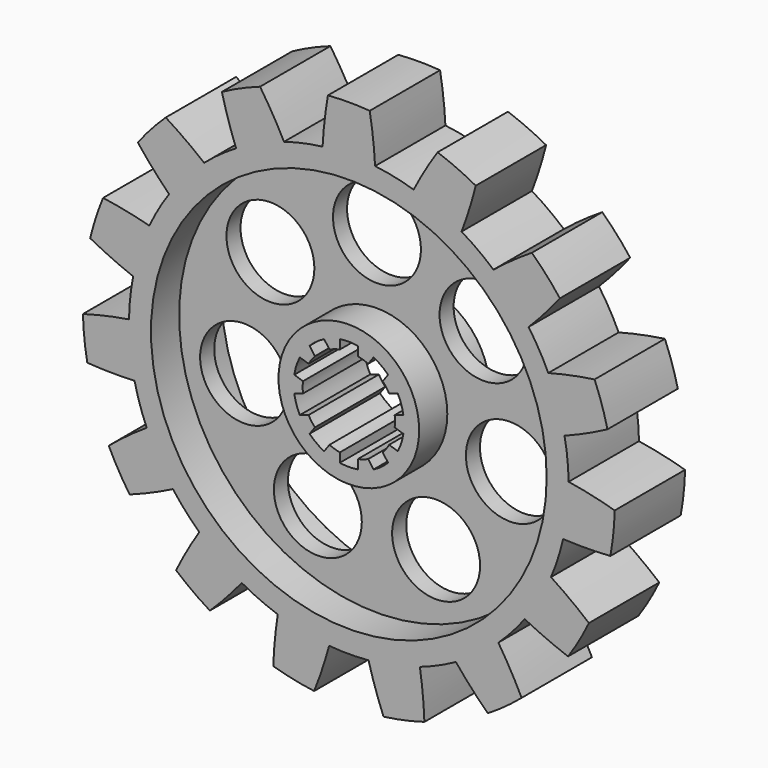
from build123d import *

# Parameters (mm, degrees)
F0_R      = 10.5
F1_DEPTH  = 20
F3_DEPTH  = 20
F4_R      = 45
F4_R_2    = 16
F5_DEPTH  = 8
F7_R      = 45
F7_R_2    = 16
F8_DEPTH  = 8
F10_R     = 10
F11_DEPTH = 25


with BuildPart() as f1:
    # F0 (on Front) → F1 (new body)
    with BuildSketch(Plane.XZ):
        with BuildLine():
            ThreePointArc((48.7465207485, -11.125498412), (49.6856419775, -5.5979443805), (50, 0))
            ThreePointArc((50, 0), (49.9986033556, 0.3737144531), (49.9944135003, 0.7474080283))
            ThreePointArc((49.9944135003, 0.7474080283), (49.7260947684, 5.2264231634), (49.0573104823, 9.6633476726))
            ThreePointArc((49.0573104823, 9.6633476726), (47.5528258148, 15.4508497187), (45.3681711282, 21.017351129))
            ThreePointArc((45.3681711282, 21.017351129), (43.3012701892, 25), (40.8856455621, 28.7813131558))
            ThreePointArc((40.8856455621, 28.7813131558), (37.1572412739, 33.4565303179), (32.8973598112, 37.6532032827))
            ThreePointArc((32.8973598112, 37.6532032827), (29.3892626146, 40.4508497187), (25.6444810897, 42.9227281244))
            ThreePointArc((25.6444810897, 42.9227281244), (20.3368321538, 45.6772728821), (14.7382961197, 47.7784745203))
            ThreePointArc((14.7382961197, 47.7784745203), (10.3955845409, 48.9073800367), (5.9691528641, 49.6424134595))
            ThreePointArc((5.9691528641, 49.6424134595), (0, 50), (-5.9691528641, 49.6424134595))
            ThreePointArc((-5.9691528641, 49.6424134595), (-10.3955845409, 48.9073800367), (-14.7382961197, 47.7784745203))
            ThreePointArc((-14.7382961197, 47.7784745203), (-20.3368321538, 45.6772728821), (-25.6444810897, 42.9227281244))
            ThreePointArc((-25.6444810897, 42.9227281244), (-29.3892626146, 40.4508497187), (-32.8973598112, 37.6532032827))
            ThreePointArc((-32.8973598112, 37.6532032827), (-37.1572412739, 33.4565303179), (-40.8856455621, 28.7813131558))
            ThreePointArc((-40.8856455621, 28.7813131558), (-43.3012701892, 25), (-45.3681711282, 21.017351129))
            ThreePointArc((-45.3681711282, 21.017351129), (-47.5528258148, 15.4508497187), (-49.0573104823, 9.6633476726))
            ThreePointArc((-49.0573104823, 9.6633476726), (-49.7260947684, 5.2264231634), (-49.9944135003, 0.7474080283))
            ThreePointArc((-49.9944135003, 0.7474080283), (-49.7260947684, -5.2264231634), (-48.7465207485, -11.125498412))
            ThreePointArc((-48.7465207485, -11.125498412), (-47.5528258148, -15.4508497187), (-45.9761675932, -19.6517687104))
            ThreePointArc((-45.9761675932, -19.6517687104), (-43.3012701892, -25), (-40.007014729, -29.9906447492))
            ThreePointArc((-40.007014729, -29.9906447492), (-37.1572412739, -33.4565303179), (-34.0082246288, -36.6529761083))
            ThreePointArc((-34.0082246288, -36.6529761083), (-29.3892626146, -40.4508497187), (-24.3499324106, -43.6701361527))
            ThreePointArc((-24.3499324106, -43.6701361527), (-20.3368321538, -45.6772728821), (-16.1599506711, -47.3165509553))
            ThreePointArc((-16.1599506711, -47.3165509553), (-10.3955845409, -48.9073800367), (-4.4825255662, -49.7986642848))
            ThreePointArc((-4.4825255662, -49.7986642848), (0, -50), (4.4825255662, -49.7986642848))
            ThreePointArc((4.4825255662, -49.7986642848), (10.3955845409, -48.9073800367), (16.1599506711, -47.3165509553))
            ThreePointArc((16.1599506711, -47.3165509553), (20.3368321538, -45.6772728821), (24.3499324106, -43.6701361527))
            ThreePointArc((24.3499324106, -43.6701361527), (29.3892626146, -40.4508497187), (34.0082246288, -36.6529761083))
            ThreePointArc((34.0082246288, -36.6529761083), (37.1572412739, -33.4565303179), (40.007014729, -29.9906447492))
            ThreePointArc((40.007014729, -29.9906447492), (43.3012701892, -25), (45.9761675932, -19.6517687104))
            ThreePointArc((45.9761675932, -19.6517687104), (47.5528258148, -15.4508497187), (48.7465207485, -11.125498412))
        make_face()
        Circle(F0_R, mode=Mode.SUBTRACT)
        with BuildLine():
            ThreePointArc((32.8973598112, 37.6532032827), (37.1572412739, 33.4565303179), (40.8856455621, 28.7813131558))
            ThreePointArc((40.8856455621, 28.7813131558), (44.5632779762, 32.6976330099), (48.0006847114, 36.8264071996))
            ThreePointArc((48.0006847114, 36.8264071996), (44.9602619414, 40.4824016847), (41.6421060965, 43.8883241859))
            ThreePointArc((41.6421060965, 43.8883241859), (37.1766429201, 40.9013223457), (32.8973598112, 37.6532032827))
        make_face()
        with BuildLine():
            ThreePointArc((45.3681711282, 21.017351129), (47.5528258148, 15.4508497187), (49.0573104823, 9.6633476726))
            ThreePointArc((49.0573104823, 9.6633476726), (54.0099056598, 11.7452560234), (58.8294567228, 14.1189596537))
            ThreePointArc((58.8294567228, 14.1189596537), (57.5389192359, 18.6955281597), (55.8929465207, 23.1566087593))
            ThreePointArc((55.8929465207, 23.1566087593), (50.5986198183, 22.2441142983), (45.3681711282, 21.017351129))
        make_face()
        with BuildLine():
            ThreePointArc((49.9944135003, 0.7474080283), (49.9986033556, 0.3737144531), (50, 0))
            ThreePointArc((50, 0), (49.6856419775, -5.5979443805), (48.7465207485, -11.125498412))
            ThreePointArc((48.7465207485, -11.125498412), (54.1177299902, -11.2379824319), (59.4860812179, -11.0297842832))
            ThreePointArc((59.4860812179, -11.0297842832), (60.1685746698, -6.3239720277), (60.47938872, -1.579094693))
            ThreePointArc((60.47938872, -1.579094693), (55.2716356759, -0.2593031926), (49.9944135003, 0.7474080283))
        make_face()
        with BuildLine():
            ThreePointArc((54.6083951717, -26.0417583272), (50.3876835981, -22.7178848059), (45.9761675932, -19.6517687104))
            ThreePointArc((45.9761675932, -19.6517687104), (43.3012701892, -25), (40.007014729, -29.9906447492))
            ThreePointArc((40.007014729, -29.9906447492), (44.8681071612, -32.2780716308), (49.8570218564, -34.271378315))
            ThreePointArc((49.8570218564, -34.271378315), (52.394536929, -30.25), (54.6083951717, -26.0417583272))
        make_face()
        with BuildLine():
            ThreePointArc((39.2951139964, -46.0015653647), (36.7912432684, -41.2483377507), (34.0082246288, -36.6529761083))
            ThreePointArc((34.0082246288, -36.6529761083), (29.3892626146, -40.4508497187), (24.3499324106, -43.6701361527))
            ThreePointArc((24.3499324106, -43.6701361527), (27.8603809901, -47.7369890077), (31.6072304791, -51.5871396904))
            ThreePointArc((31.6072304791, -51.5871396904), (35.5610077637, -48.9455281597), (39.2951139964, -46.0015653647))
        make_face()
        with BuildLine():
            ThreePointArc((17.1873506263, -58.0072838396), (16.8332627397, -52.6465783691), (16.1599506711, -47.3165509553))
            ThreePointArc((16.1599506711, -47.3165509553), (10.3955845409, -48.9073800367), (4.4825255662, -49.7986642848))
            ThreePointArc((4.4825255662, -49.7986642848), (6.0353418421, -54.9417473083), (7.8922618093, -59.983015959))
            ThreePointArc((7.8922618093, -59.983015959), (12.5786572945, -59.1779298444), (17.1873506263, -58.0072838396))
        make_face()
        with BuildLine():
            ThreePointArc((-31.6072304791, -51.5871396904), (-27.8603809901, -47.7369890077), (-24.3499324106, -43.6701361527))
            ThreePointArc((-24.3499324106, -43.6701361527), (-29.3892626146, -40.4508497187), (-34.0082246288, -36.6529761083))
            ThreePointArc((-34.0082246288, -36.6529761083), (-36.7912432684, -41.2483377507), (-39.2951139964, -46.0015653647))
            ThreePointArc((-39.2951139964, -46.0015653647), (-35.5610077637, -48.9455281597), (-31.6072304791, -51.5871396904))
        make_face()
        with BuildLine():
            ThreePointArc((-7.8922618093, -59.983015959), (-6.0353418421, -54.9417473083), (-4.4825255662, -49.7986642848))
            ThreePointArc((-4.4825255662, -49.7986642848), (-10.3955845409, -48.9073800367), (-16.1599506711, -47.3165509553))
            ThreePointArc((-16.1599506711, -47.3165509553), (-16.8332627397, -52.6465783691), (-17.1873506263, -58.0072838396))
            ThreePointArc((-17.1873506263, -58.0072838396), (-12.5786572945, -59.1779298444), (-7.8922618093, -59.983015959))
        make_face()
        with BuildLine():
            ThreePointArc((-49.8570218564, -34.271378315), (-44.8681071612, -32.2780716308), (-40.007014729, -29.9906447492))
            ThreePointArc((-40.007014729, -29.9906447492), (-43.3012701892, -25), (-45.9761675932, -19.6517687104))
            ThreePointArc((-45.9761675932, -19.6517687104), (-50.3876835981, -22.7178848059), (-54.6083951717, -26.0417583272))
            ThreePointArc((-54.6083951717, -26.0417583272), (-52.394536929, -30.25), (-49.8570218564, -34.271378315))
        make_face()
        with BuildLine():
            ThreePointArc((-59.4860812179, -11.0297842832), (-54.1177299902, -11.2379824319), (-48.7465207485, -11.125498412))
            ThreePointArc((-48.7465207485, -11.125498412), (-49.7260947684, -5.2264231634), (-49.9944135003, 0.7474080283))
            ThreePointArc((-49.9944135003, 0.7474080283), (-55.2716356759, -0.2593031926), (-60.47938872, -1.579094693))
            ThreePointArc((-60.47938872, -1.579094693), (-60.1685746698, -6.3239720277), (-59.4860812179, -11.0297842832))
        make_face()
        with BuildLine():
            ThreePointArc((-49.0573104823, 9.6633476726), (-47.5528258148, 15.4508497187), (-45.3681711282, 21.017351129))
            ThreePointArc((-45.3681711282, 21.017351129), (-50.5986198183, 22.2441142983), (-55.8929465207, 23.1566087593))
            ThreePointArc((-55.8929465207, 23.1566087593), (-57.5389192359, 18.6955281597), (-58.8294567228, 14.1189596537))
            ThreePointArc((-58.8294567228, 14.1189596537), (-54.0099056598, 11.7452560234), (-49.0573104823, 9.6633476726))
        make_face()
        with BuildLine():
            ThreePointArc((-40.8856455621, 28.7813131558), (-37.1572412739, 33.4565303179), (-32.8973598112, 37.6532032827))
            ThreePointArc((-32.8973598112, 37.6532032827), (-37.1766429201, 40.9013223457), (-41.6421060965, 43.8883241859))
            ThreePointArc((-41.6421060965, 43.8883241859), (-44.9602619414, 40.4824016847), (-48.0006847114, 36.8264071996))
            ThreePointArc((-48.0006847114, 36.8264071996), (-44.5632779762, 32.6976330099), (-40.8856455621, 28.7813131558))
        make_face()
        with BuildLine():
            ThreePointArc((-25.6444810897, 42.9227281244), (-20.3368321538, 45.6772728821), (-14.7382961197, 47.7784745203))
            ThreePointArc((-14.7382961197, 47.7784745203), (-17.3264867218, 52.4863201826), (-20.1909672215, 57.0313496479))
            ThreePointArc((-20.1909672215, 57.0313496479), (-24.6075669061, 55.2695001874), (-28.8721582409, 53.1662343834))
            ThreePointArc((-28.8721582409, 53.1662343834), (-27.4112546859, 47.9962922004), (-25.6444810897, 42.9227281244))
        make_face()
        with BuildLine():
            ThreePointArc((-5.9691528641, 49.6424134595), (0, 50), (5.9691528641, 49.6424134595))
            ThreePointArc((5.9691528641, 49.6424134595), (5.5195764369, 54.9959564368), (4.7513733153, 60.3131366422))
            ThreePointArc((4.7513733153, 60.3131366422), (0, 60.5), (-4.7513733153, 60.3131366422))
            ThreePointArc((-4.7513733153, 60.3131366422), (-5.5195764369, 54.9959564368), (-5.9691528641, 49.6424134595))
        make_face()
        with BuildLine():
            ThreePointArc((14.7382961197, 47.7784745203), (20.3368321538, 45.6772728821), (25.6444810897, 42.9227281244))
            ThreePointArc((25.6444810897, 42.9227281244), (27.4112546859, 47.9962922004), (28.8721582409, 53.1662343834))
            ThreePointArc((28.8721582409, 53.1662343834), (24.6075669061, 55.2695001874), (20.1909672215, 57.0313496479))
            ThreePointArc((20.1909672215, 57.0313496479), (17.3264867218, 52.4863201826), (14.7382961197, 47.7784745203))
        make_face()
    extrude(amount=F1_DEPTH)

    # F2 (on Front) → F3 (cut)
    with BuildSketch(Plane.XZ):
        with BuildLine():
            Line((2.05, 10.2979366865), (2.05, 12.3814377194))
            ThreePointArc((2.05, 12.3814377194), (0, 12.55), (-2.05, 12.3814377194))
            Line((-2.05, 12.3814377194), (-2.05, 10.2979366865))
            ThreePointArc((-2.05, 10.2979366865), (0, 10.5), (2.05, 10.2979366865))
        make_face()
        with BuildLine():
            ThreePointArc((4.3944904749, 9.5361655536), (3.2446784409, 9.9860934211), (2.05, 10.2979366865))
            Line((2.05, 10.2979366865), (2.05, 6.3092512512))
            Line((2.05, 6.3092512512), (4.3944904749, 9.5361655536))
        make_face()
        with BuildLine():
            Line((2.05, 6.3092512512), (2.05, 10.2979366865))
            ThreePointArc((2.05, 10.2979366865), (0, 10.5), (-2.05, 10.2979366865))
            Line((-2.05, 10.2979366865), (-2.05, 6.3092512512))
            Line((-2.05, 6.3092512512), (0, 3.4876683142))
            Line((0, 3.4876683142), (2.05, 6.3092512512))
        make_face()
        with BuildLine():
            Line((-2.05, 6.3092512512), (-2.05, 10.2979366865))
            ThreePointArc((-2.05, 10.2979366865), (-3.2446784409, 9.9860934211), (-4.3944904749, 9.5361655536))
            Line((-4.3944904749, 9.5361655536), (-2.05, 6.3092512512))
        make_face()
        with BuildLine():
            Line((4.3944904749, 9.5361655536), (2.05, 6.3092512512))
            Line((2.05, 6.3092512512), (2.05, 2.821582937))
            Line((2.05, 2.821582937), (5.3669696769, 3.8993317168))
            Line((5.3669696769, 3.8993317168), (7.7114601519, 7.1262460192))
            ThreePointArc((7.7114601519, 7.1262460192), (6.1717451491, 8.4946784409), (4.3944904749, 9.5361655536))
        make_face()
        with BuildLine():
            Line((5.6191416552, 11.221753297), (4.3944904749, 9.5361655536))
            ThreePointArc((4.3944904749, 9.5361655536), (6.1717451491, 8.4946784409), (7.7114601519, 7.1262460192))
            Line((7.7114601519, 7.1262460192), (8.9361113321, 8.8118337626))
            ThreePointArc((8.9361113321, 8.8118337626), (7.3767049163, 10.1531632794), (5.6191416552, 11.221753297))
        make_face()
        with BuildLine():
            Line((-2.05, 2.821582937), (-2.05, 6.3092512512))
            Line((-2.05, 6.3092512512), (-4.3944904749, 9.5361655536))
            ThreePointArc((-4.3944904749, 9.5361655536), (-6.1717451491, 8.4946784409), (-7.7114601519, 7.1262460192))
            Line((-7.7114601519, 7.1262460192), (-5.3669696769, 3.8993317168))
            Line((-5.3669696769, 3.8993317168), (-2.05, 2.821582937))
        make_face()
        with BuildLine():
            ThreePointArc((-7.7114601519, 7.1262460192), (-6.1717451491, 8.4946784409), (-4.3944904749, 9.5361655536))
            Line((-4.3944904749, 9.5361655536), (-5.6191416552, 11.221753297))
            ThreePointArc((-5.6191416552, 11.221753297), (-7.3767049163, 10.1531632794), (-8.9361113321, 8.8118337626))
            Line((-8.9361113321, 8.8118337626), (-7.7114601519, 7.1262460192))
        make_face()
        with BuildLine():
            ThreePointArc((9.1604349517, 5.1319033015), (8.4946784409, 6.1717451491), (7.7114601519, 7.1262460192))
            Line((7.7114601519, 7.1262460192), (5.3669696769, 3.8993317168))
            Line((5.3669696769, 3.8993317168), (9.1604349517, 5.1319033015))
        make_face()
        with BuildLine():
            Line((-5.3669696769, 3.8993317168), (-7.7114601519, 7.1262460192))
            ThreePointArc((-7.7114601519, 7.1262460192), (-8.4946784409, 6.1717451491), (-9.1604349517, 5.1319033015))
            Line((-9.1604349517, 5.1319033015), (-5.3669696769, 3.8993317168))
        make_face()
        with BuildLine():
            Line((9.1604349517, 5.1319033015), (5.3669696769, 3.8993317168))
            Line((5.3669696769, 3.8993317168), (3.3169696769, 1.0777487798))
            Line((3.3169696769, 1.0777487798), (6.6339393539, 0))
            Line((6.6339393539, 0), (10.4274046286, 1.2325715847))
            ThreePointArc((10.4274046286, 1.2325715847), (9.9860934211, 3.2446784409), (9.1604349517, 5.1319033015))
        make_face()
        with BuildLine():
            Line((11.1419621857, 5.7757405285), (9.1604349517, 5.1319033015))
            ThreePointArc((9.1604349517, 5.1319033015), (9.9860934211, 3.2446784409), (10.4274046286, 1.2325715847))
            Line((10.4274046286, 1.2325715847), (12.4089318626, 1.8764088117))
            ThreePointArc((12.4089318626, 1.8764088117), (11.9357592795, 3.8781632794), (11.1419621857, 5.7757405285))
        make_face()
        with BuildLine():
            Line((-3.3169696769, 1.0777487798), (-5.3669696769, 3.8993317168))
            Line((-5.3669696769, 3.8993317168), (-9.1604349517, 5.1319033015))
            ThreePointArc((-9.1604349517, 5.1319033015), (-9.9860934211, 3.2446784409), (-10.4274046286, 1.2325715847))
            Line((-10.4274046286, 1.2325715847), (-6.6339393539, 0))
            Line((-6.6339393539, 0), (-3.3169696769, 1.0777487798))
        make_face()
        with BuildLine():
            ThreePointArc((-10.4274046286, 1.2325715847), (-9.9860934211, 3.2446784409), (-9.1604349517, 5.1319033015))
            Line((-9.1604349517, 5.1319033015), (-11.1419621857, 5.7757405285))
            ThreePointArc((-11.1419621857, 5.7757405285), (-11.9357592795, 3.8781632794), (-12.4089318626, 1.8764088117))
            Line((-12.4089318626, 1.8764088117), (-10.4274046286, 1.2325715847))
        make_face()
        with BuildLine():
            ThreePointArc((10.5, 0), (10.4818354452, 0.6173537882), (10.4274046286, 1.2325715847))
            Line((10.4274046286, 1.2325715847), (6.6339393539, 0))
            Line((6.6339393539, 0), (10.4274046286, -1.2325715847))
            ThreePointArc((10.4274046286, -1.2325715847), (10.4818354452, -0.6173537882), (10.5, 0))
        make_face()
        with BuildLine():
            Line((-6.6339393539, 0), (-10.4274046286, 1.2325715847))
            ThreePointArc((-10.4274046286, 1.2325715847), (-10.5, 0), (-10.4274046286, -1.2325715847))
            Line((-10.4274046286, -1.2325715847), (-6.6339393539, 0))
        make_face()
        with BuildLine():
            Line((10.4274046286, -1.2325715847), (6.6339393539, 0))
            Line((6.6339393539, 0), (3.3169696769, -1.0777487798))
            Line((3.3169696769, -1.0777487798), (5.3669696769, -3.8993317168))
            Line((5.3669696769, -3.8993317168), (9.1604349517, -5.1319033015))
            ThreePointArc((9.1604349517, -5.1319033015), (9.9860934211, -3.2446784409), (10.4274046286, -1.2325715847))
        make_face()
        with BuildLine():
            Line((-3.3169696769, -1.0777487798), (-6.6339393539, 0))
            Line((-6.6339393539, 0), (-10.4274046286, -1.2325715847))
            ThreePointArc((-10.4274046286, -1.2325715847), (-9.9860934211, -3.2446784409), (-9.1604349517, -5.1319033015))
            Line((-9.1604349517, -5.1319033015), (-5.3669696769, -3.8993317168))
            Line((-5.3669696769, -3.8993317168), (-3.3169696769, -1.0777487798))
        make_face()
        with BuildLine():
            ThreePointArc((-9.1604349517, -5.1319033015), (-9.9860934211, -3.2446784409), (-10.4274046286, -1.2325715847))
            Line((-10.4274046286, -1.2325715847), (-12.4089318626, -1.8764088117))
            ThreePointArc((-12.4089318626, -1.8764088117), (-11.9357592795, -3.8781632794), (-11.1419621857, -5.7757405285))
            Line((-11.1419621857, -5.7757405285), (-9.1604349517, -5.1319033015))
        make_face()
        with BuildLine():
            Line((12.4089318626, -1.8764088117), (10.4274046286, -1.2325715847))
            ThreePointArc((10.4274046286, -1.2325715847), (9.9860934211, -3.2446784409), (9.1604349517, -5.1319033015))
            Line((9.1604349517, -5.1319033015), (11.1419621857, -5.7757405285))
            ThreePointArc((11.1419621857, -5.7757405285), (11.9357592795, -3.8781632794), (12.4089318626, -1.8764088117))
        make_face()
        with BuildLine():
            Line((-5.3669696769, -3.8993317168), (-9.1604349517, -5.1319033015))
            ThreePointArc((-9.1604349517, -5.1319033015), (-8.4946784409, -6.1717451491), (-7.7114601519, -7.1262460192))
            Line((-7.7114601519, -7.1262460192), (-5.3669696769, -3.8993317168))
        make_face()
        with BuildLine():
            Line((5.3669696769, -3.8993317168), (2.05, -2.821582937))
            Line((2.05, -2.821582937), (2.05, -6.3092512512))
            Line((2.05, -6.3092512512), (4.3944904749, -9.5361655536))
            ThreePointArc((4.3944904749, -9.5361655536), (6.1717451491, -8.4946784409), (7.7114601519, -7.1262460192))
            Line((7.7114601519, -7.1262460192), (5.3669696769, -3.8993317168))
        make_face()
        with BuildLine():
            Line((9.1604349517, -5.1319033015), (5.3669696769, -3.8993317168))
            Line((5.3669696769, -3.8993317168), (7.7114601519, -7.1262460192))
            ThreePointArc((7.7114601519, -7.1262460192), (8.4946784409, -6.1717451491), (9.1604349517, -5.1319033015))
        make_face()
        with BuildLine():
            Line((-2.05, -6.3092512512), (-2.05, -2.821582937))
            Line((-2.05, -2.821582937), (-5.3669696769, -3.8993317168))
            Line((-5.3669696769, -3.8993317168), (-7.7114601519, -7.1262460192))
            ThreePointArc((-7.7114601519, -7.1262460192), (-6.1717451491, -8.4946784409), (-4.3944904749, -9.5361655536))
            Line((-4.3944904749, -9.5361655536), (-2.05, -6.3092512512))
        make_face()
        with BuildLine():
            ThreePointArc((-4.3944904749, -9.5361655536), (-6.1717451491, -8.4946784409), (-7.7114601519, -7.1262460192))
            Line((-7.7114601519, -7.1262460192), (-8.9361113321, -8.8118337626))
            ThreePointArc((-8.9361113321, -8.8118337626), (-7.3767049163, -10.1531632794), (-5.6191416552, -11.221753297))
            Line((-5.6191416552, -11.221753297), (-4.3944904749, -9.5361655536))
        make_face()
        with BuildLine():
            Line((4.3944904749, -9.5361655536), (2.05, -6.3092512512))
            Line((2.05, -6.3092512512), (2.05, -10.2979366865))
            ThreePointArc((2.05, -10.2979366865), (3.2446784409, -9.9860934211), (4.3944904749, -9.5361655536))
        make_face()
        with BuildLine():
            Line((2.05, -10.2979366865), (2.05, -6.3092512512))
            Line((2.05, -6.3092512512), (0, -3.4876683142))
            Line((0, -3.4876683142), (-2.05, -6.3092512512))
            Line((-2.05, -6.3092512512), (-2.05, -10.2979366865))
            ThreePointArc((-2.05, -10.2979366865), (0, -10.5), (2.05, -10.2979366865))
        make_face()
        with BuildLine():
            Line((8.9361113321, -8.8118337626), (7.7114601519, -7.1262460192))
            ThreePointArc((7.7114601519, -7.1262460192), (6.1717451491, -8.4946784409), (4.3944904749, -9.5361655536))
            Line((4.3944904749, -9.5361655536), (5.6191416552, -11.221753297))
            ThreePointArc((5.6191416552, -11.221753297), (7.3767049163, -10.1531632794), (8.9361113321, -8.8118337626))
        make_face()
        with BuildLine():
            Line((-2.05, -10.2979366865), (-2.05, -6.3092512512))
            Line((-2.05, -6.3092512512), (-4.3944904749, -9.5361655536))
            ThreePointArc((-4.3944904749, -9.5361655536), (-3.2446784409, -9.9860934211), (-2.05, -10.2979366865))
        make_face()
        with BuildLine():
            Line((2.05, -12.3814377194), (2.05, -10.2979366865))
            ThreePointArc((2.05, -10.2979366865), (0, -10.5), (-2.05, -10.2979366865))
            Line((-2.05, -10.2979366865), (-2.05, -12.3814377194))
            ThreePointArc((-2.05, -12.3814377194), (0, -12.55), (2.05, -12.3814377194))
        make_face()
    extrude(amount=F3_DEPTH, mode=Mode.SUBTRACT)

    # F4 (on Front) → F5 (cut)
    with BuildSketch(Plane.XZ):
        Circle(F4_R)
        Circle(F4_R_2, mode=Mode.SUBTRACT)
    extrude(amount=F5_DEPTH, mode=Mode.SUBTRACT)

    # F7 (on offset) → F8 (cut)
    with BuildSketch(Plane.XZ.offset(20)):
        Circle(F7_R)
        Circle(F7_R_2, mode=Mode.SUBTRACT)
        Circle(F7_R)
        Circle(F7_R_2, mode=Mode.SUBTRACT)
    extrude(amount=-F8_DEPTH, mode=Mode.SUBTRACT)

    # F10 (on offset) → F11 (cut)
    with BuildSketch(Plane.XZ.offset(12)):
        with Locations((-24.2367759565, 19.3281838576)):
            Circle(F10_R)
        with Locations((0, 31)):
            Circle(F10_R)
        with Locations((24.2367759565, 19.3281838576)):
            Circle(F10_R)
        with Locations((30.2227652776, -6.8981489526)):
            Circle(F10_R)
        with Locations((-13.4503959126, -27.930034905)):
            Circle(F10_R)
        with Locations((-30.2227652776, -6.8981489526)):
            Circle(F10_R)
        with Locations((13.4503959126, -27.930034905)):
            Circle(F10_R)
    extrude(amount=-F11_DEPTH, mode=Mode.SUBTRACT)


solid = f1.part
